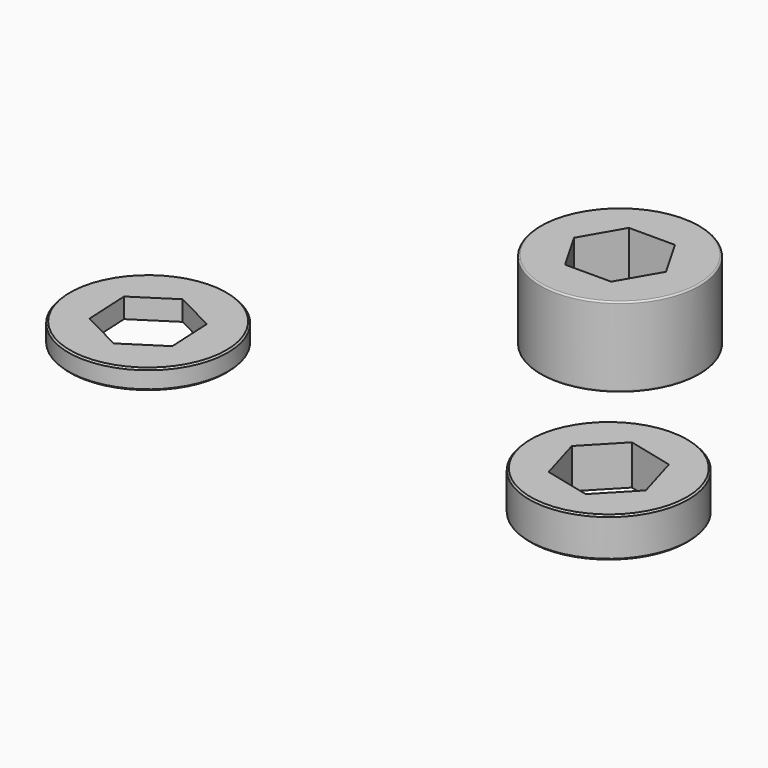
from build123d import *

# Parameters (mm, degrees)
F0_R     = 12.7
F1_DEPTH = 12.7
F2_R     = 0.254
F3_R     = 12.7
F4_DEPTH = 3.175
F5_SIZE  = 0.254
F6_R     = 12.7
F7_DEPTH = 6.35
F8_SIZE  = 0.254


with BuildPart() as f1:
    # F0 (on Top) → F1 (new body)
    with BuildSketch(Plane.XY):
        Circle(F0_R)
        Polygon((3.66414, 6.351175), (7.332348, 0.002349), (3.668209, -6.348825), (-3.66414, -6.351175), (-7.332348, -0.002349), (-3.668209, 6.348825), align=None, mode=Mode.SUBTRACT)
    extrude(amount=F1_DEPTH)

    # F2
    f2_edges = [f1.edges().sort_by_distance(p)[0] for p in [
        (-12.7, 0, 12.7),
        (-12.7, 0, 0),
    ]]
    fillet(f2_edges, radius=F2_R)


with BuildPart() as f4:
    # F3 (on Top) → F4 (new body)
    with BuildSketch(Plane.XY):
        with Locations((-46.061356, -36.384801)):
            Circle(F3_R)
        Polygon((-39.90001, -32.409736), (-39.538176, -39.733151), (-45.699522, -43.708216), (-52.222703, -40.359866), (-52.584537, -33.036451), (-46.42319, -29.061386), align=None, mode=Mode.SUBTRACT)
    extrude(amount=F4_DEPTH)

    # F5
    f5_edges = [f4.edges().sort_by_distance(p)[0] for p in [
        (-58.761356, -36.384801, 3.175),
        (-58.761356, -36.384801, 0),
    ]]
    chamfer(f5_edges, length=F5_SIZE)


with BuildPart() as f7:
    # F6 (on Top) → F7 (new body)
    with BuildSketch(Plane.XY):
        with Locations((27.212592, -36.249225)):
            Circle(F6_R)
        Polygon((32.429894, -30.794769), (34.544941, -38.040313), (29.327639, -43.494769), (21.995291, -41.703682), (19.880244, -34.458138), (25.097546, -29.003682), align=None, mode=Mode.SUBTRACT)
    extrude(amount=F7_DEPTH)

    # F8
    f8_edges = [f7.edges().sort_by_distance(p)[0] for p in [
        (14.512592, -36.249225, 6.35),
        (14.512592, -36.249225, 0),
    ]]
    chamfer(f8_edges, length=F8_SIZE)


solid = Compound([f1.part, f4.part, f7.part])
